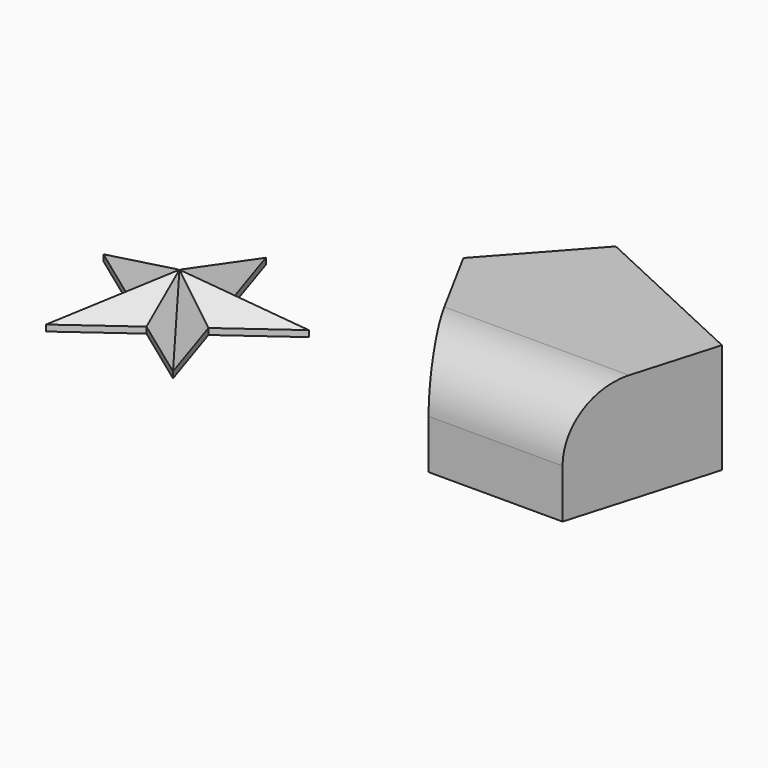
from build123d import *

# Parameters (mm, degrees)
F1_DEPTH = 25
F2_SIZE  = 21
F4_DEPTH = 71.1
F5_R     = 39.3516810667


with BuildPart() as f1:
    # F0 (on Top) → F1 (new body)
    with BuildSketch(Plane.XY):
        Polygon((15.6806584298, 21.5825747639), (0, 69.8426790655), (-15.6806584298, 21.5825747639), align=None)
        Polygon((0, -26.6775295377), (25.3718383054, -8.2438099951), (15.6806584298, 21.5825747639), (-15.6806584298, 21.5825747639), (-25.3718383054, -8.2438099951), align=None)
        Polygon((-15.6806584298, 21.5825747639), (-66.4243350407, 21.5825747639), (-25.3718383054, -8.2438099951), align=None)
        Polygon((-25.3718383054, -8.2438099951), (-41.0524967353, -56.5039142966), (0, -26.6775295377), align=None)
        Polygon((0, -26.6775295377), (41.0524967353, -56.5039142966), (25.3718383054, -8.2438099951), align=None)
        Polygon((25.3718383054, -8.2438099951), (66.4243350407, 21.5825747639), (15.6806584298, 21.5825747639), align=None)
    extrude(amount=F1_DEPTH)

    # F2
    f2_edges = [f1.edges().sort_by_distance(p)[0] for p in [
        (-7.840329, 45.712627, 25),
        (-41.052497, 21.582575, 25),
        (-45.898087, 6.669382, 25),
        (-33.212168, -32.373862, 25),
        (-20.526248, -41.590722, 25),
        (20.526248, -41.590722, 25),
        (33.212168, -32.373862, 25),
        (45.898087, 6.669382, 25),
        (41.052497, 21.582575, 25),
        (7.840329, 45.712627, 25),
    ]]
    chamfer(f2_edges, length=F2_SIZE)


with BuildPart() as f4:
    # F3 (on Top) → F4 (new body)
    with BuildSketch(Plane.XY):
        Polygon((210.8042389154, 89.3370583653), (158.618375659, 31.3318185508), (205.9099823236, -55.921074003), (292.565792799, -55.921074003), (320.1750814915, 38.4257361293), align=None)
    extrude(amount=F4_DEPTH)

    # F5
    f5_edges = [f4.edges().sort_by_distance(p)[0] for p in [
        (249.237888, -55.921074, 71.1),
    ]]
    fillet(f5_edges, radius=F5_R)


solid = Compound([f1.part, f4.part])
